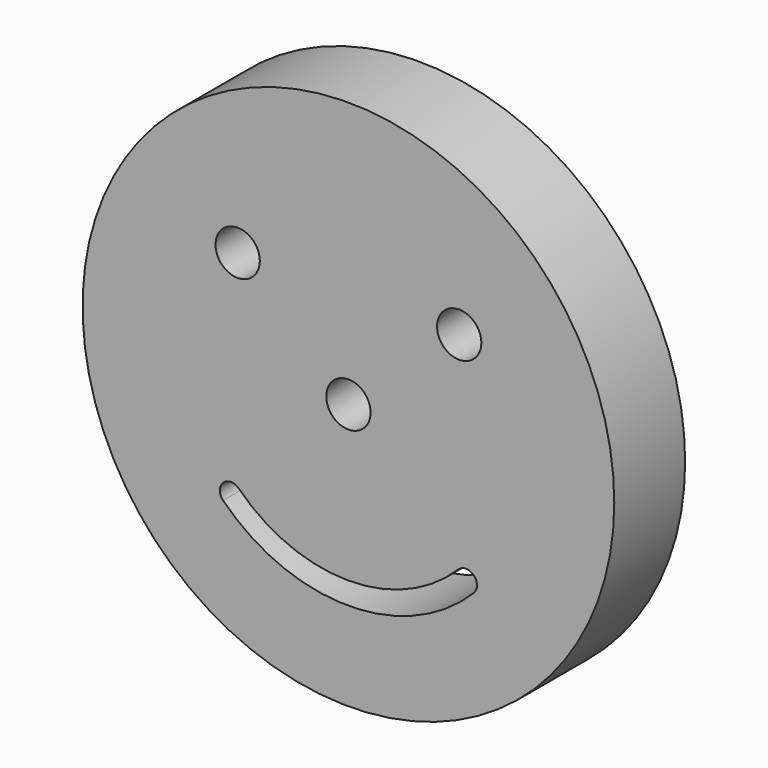
from build123d import *

# Parameters (mm, degrees)
F0_R     = 6
F0_R_2   = 0.5
F1_DEPTH = 2
F2_R     = 0.5
F3_DEPTH = 25


with BuildPart() as f1:
    # F0 (on Front) → F1 (new body)
    with BuildSketch(Plane.XZ):
        Circle(F0_R)
        with BuildLine():
            ThreePointArc((2.474874, -2.474874), (2.828427, -2.474874), (2.828427, -2.828427))
            ThreePointArc((2.828427, -2.828427), (0, -4), (-2.828427, -2.828427))
            ThreePointArc((-2.828427, -2.828427), (-2.828427, -2.474874), (-2.474874, -2.474874))
            ThreePointArc((-2.474874, -2.474874), (0, -3.5), (2.474874, -2.474874))
        make_face(mode=Mode.SUBTRACT)
        with Locations((-2.5, 2.2)):
            Circle(F0_R_2, mode=Mode.SUBTRACT)
        with Locations((2.5, 2.2)):
            Circle(F0_R_2, mode=Mode.SUBTRACT)
    extrude(amount=F1_DEPTH)

    # F2 (on face) → F3 (cut)
    with BuildSketch(Plane.XZ.offset(2)):
        Circle(F2_R)
    extrude(amount=-F3_DEPTH, mode=Mode.SUBTRACT)


solid = f1.part
